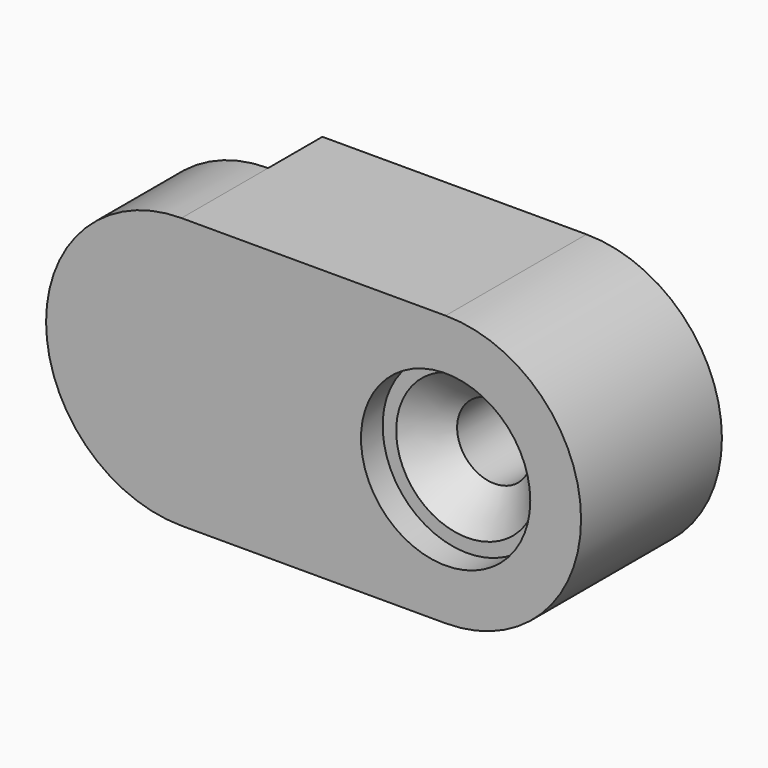
from build123d import *

# Parameters (mm, degrees)
F0_R     = 2.75
F1_DEPTH = 5
F2_R     = 2.75
F3_DEPTH = 8
F4_R     = 6.25
F5_DEPTH = 2
F6_SIZE  = 2.5


with BuildPart() as f1:
    # F0 (on Front) → F1 (new body)
    with BuildSketch(Plane.XZ):
        with BuildLine():
            ThreePointArc((0, -10), (10, 0), (0, 10))
            Line((0, 10), (-19.5, 10))
            Line((-19.5, 10), (-19.5, -10))
            Line((-19.5, -10), (0, -10))
        make_face()
        Circle(F0_R, mode=Mode.SUBTRACT)
    extrude(amount=F1_DEPTH)

    # F2 (on face) → F3 (join)
    with BuildSketch(Plane.XZ.offset(5)):
        with BuildLine():
            ThreePointArc((0, -10), (10, 0), (0, 10))
            Line((0, 10), (-19.5, 10))
            ThreePointArc((-19.5, 10), (-29.5, 0), (-19.5, -10))
            Line((-19.5, -10), (0, -10))
        make_face()
        Circle(F2_R, mode=Mode.SUBTRACT)
    extrude(amount=F3_DEPTH)

    # F4 (on face) → F5 (cut)
    with BuildSketch(Plane.XZ.offset(13)):
        Circle(F4_R)
    extrude(amount=-F5_DEPTH, mode=Mode.SUBTRACT)

    # F6
    f6_edges = [f1.edges().sort_by_distance(p)[0] for p in [
        (-2.75, -11, 0),
    ]]
    chamfer(f6_edges, length=F6_SIZE)


solid = f1.part
